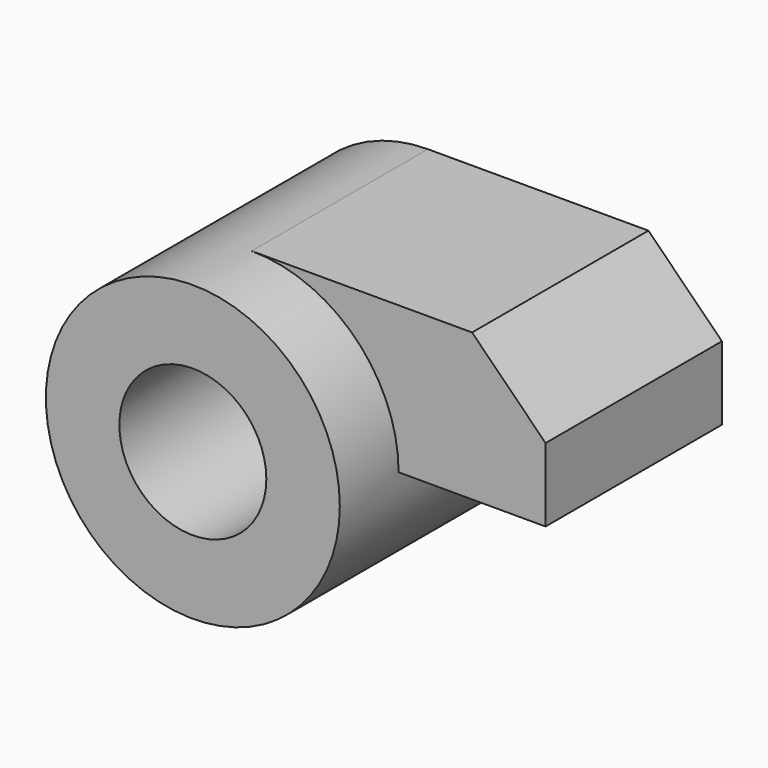
from build123d import *

# Parameters (mm, degrees)
F0_R     = 10
F0_R_2   = 5
F1_DEPTH = 20
F3_DEPTH = 15


with BuildPart() as f1:
    # F0 (on Front) → F1 (new body)
    with BuildSketch(Plane.XZ):
        Circle(F0_R)
        Circle(F0_R_2, mode=Mode.SUBTRACT)
    extrude(amount=-F1_DEPTH)

    # F2 (on face) → F3 (join)
    with BuildSketch(Plane(origin=(0, 20, 0), x_dir=(-1, 0, 0), z_dir=(0, 1, 0))):
        with BuildLine():
            Line((-15, 10), (-20, 5))
            Line((-20, 5), (-20, 0))
            Line((-20, 0), (-10, 0))
            ThreePointArc((-10, 0), (-7.071068, 7.071068), (0, 10))
            Line((0, 10), (-15, 10))
        make_face()
    extrude(amount=-F3_DEPTH)


solid = f1.part
